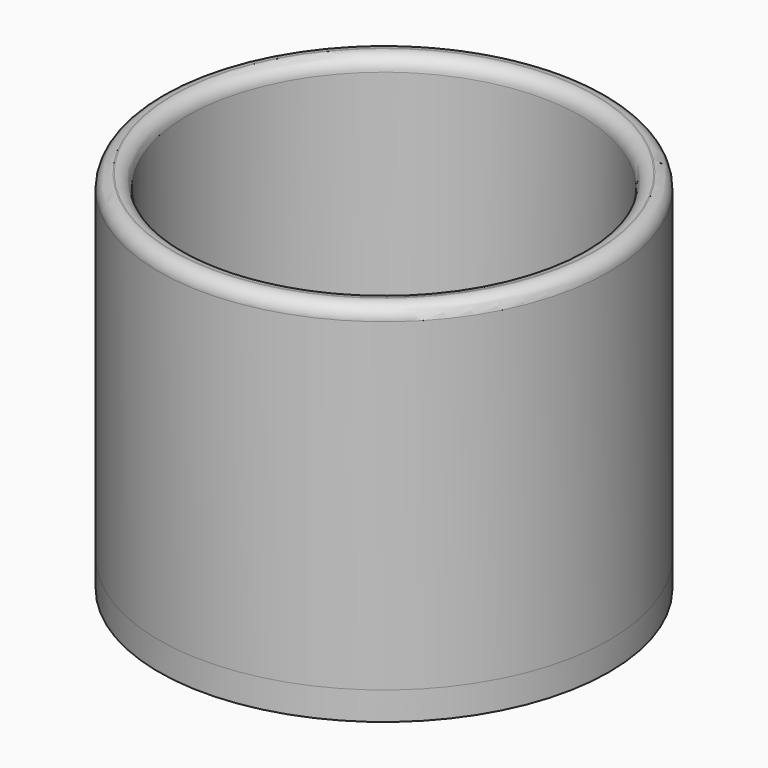
from build123d import *

# Parameters (mm, degrees)
F0_R     = 50.8
F1_DEPTH = 6.35
F2_R     = 50.8
F2_R_2   = 44.45
F3_DEPTH = 76.2
F4_R     = 3.066051
F5_R     = 3.066051


with BuildPart() as f1:
    # F0 (on Top) → F1 (new body)
    with BuildSketch(Plane.XY):
        Circle(F0_R)
    extrude(amount=-F1_DEPTH)

    # F2 (on face) → F3 (join)
    with BuildSketch(Plane.XY):
        Circle(F2_R)
        Circle(F2_R_2, mode=Mode.SUBTRACT)
    extrude(amount=F3_DEPTH)

    # F4
    f4_edges = [f1.edges().sort_by_distance(p)[0] for p in [
        (-50.8, 0, 76.2),
    ]]
    fillet(f4_edges, radius=F4_R)

    # F5
    f5_edges = [f1.edges().sort_by_distance(p)[0] for p in [
        (-44.45, 0, 76.2),
    ]]
    fillet(f5_edges, radius=F5_R)


solid = f1.part
